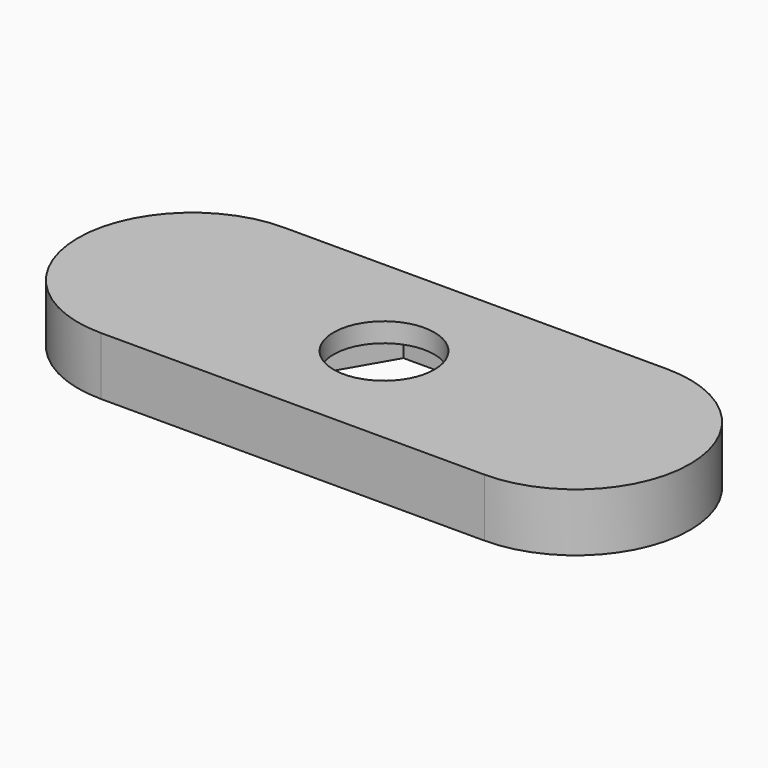
from build123d import *

# Parameters (mm, degrees)
F1_DEPTH = 1.5
F3_DEPTH = 1
F4_R     = 1.3
F5_DEPTH = 25


with BuildPart() as f1:
    # F0 (on Top) → F1 (new body)
    with BuildSketch(Plane.XY):
        with BuildLine():
            Line((-2, 0), (0, 0))
            Line((0, 0), (2, 0))
            ThreePointArc((2, 0), (2.8640349955, 2.0859650045), (4.95, 2.95))
            Line((4.95, 2.95), (-4.95, 2.95))
            ThreePointArc((-4.95, 2.95), (-2.8640349955, 2.0859650045), (-2, 0))
        make_face()
        with BuildLine():
            Line((2, 0), (0, 0))
            Line((0, 0), (-2, 0))
            ThreePointArc((-2, 0), (-2.8640349955, -2.0859650045), (-4.95, -2.95))
            Line((-4.95, -2.95), (4.95, -2.95))
            ThreePointArc((4.95, -2.95), (2.8640349955, -2.0859650045), (2, 0))
        make_face()
        with BuildLine():
            ThreePointArc((4.95, 2.95), (2.8640349955, 2.0859650045), (2, 0))
            Line((2, 0), (4.95, 0))
            Line((4.95, 0), (4.95, 2.95))
        make_face()
        with BuildLine():
            Line((4.95, 0), (2, 0))
            ThreePointArc((2, 0), (2.8640349955, -2.0859650045), (4.95, -2.95))
            ThreePointArc((4.95, -2.95), (7.0359650045, -2.0859650045), (7.9, 0))
            ThreePointArc((7.9, 0), (7.0359650045, 2.0859650045), (4.95, 2.95))
            Line((4.95, 2.95), (4.95, 0))
        make_face()
        with BuildLine():
            ThreePointArc((-4.95, -2.95), (-2.8640349955, -2.0859650045), (-2, 0))
            ThreePointArc((-2, 0), (-2.8640349955, 2.0859650045), (-4.95, 2.95))
            ThreePointArc((-4.95, 2.95), (-7.9, 0), (-4.95, -2.95))
        make_face()
    extrude(amount=F1_DEPTH)

    # F2 (on face) → F3 (cut)
    with BuildSketch(Plane(origin=(0, 0, 0), x_dir=(1, 0, 0), z_dir=(0, 0, -1))):
        Polygon((1.3, -2.2516660498), (2.6, 0), (1.3, 2.2516660498), (-1.3, 2.2516660498), (-2.6, 0), (-1.3, -2.2516660498), align=None)
    extrude(amount=-F3_DEPTH, mode=Mode.SUBTRACT)

    # F4 (on face) → F5 (cut)
    with BuildSketch(Plane(origin=(0, 0, 1), x_dir=(1, 0, 0), z_dir=(0, 0, -1))):
        Circle(F4_R)
    extrude(amount=-F5_DEPTH, mode=Mode.SUBTRACT)


solid = f1.part
